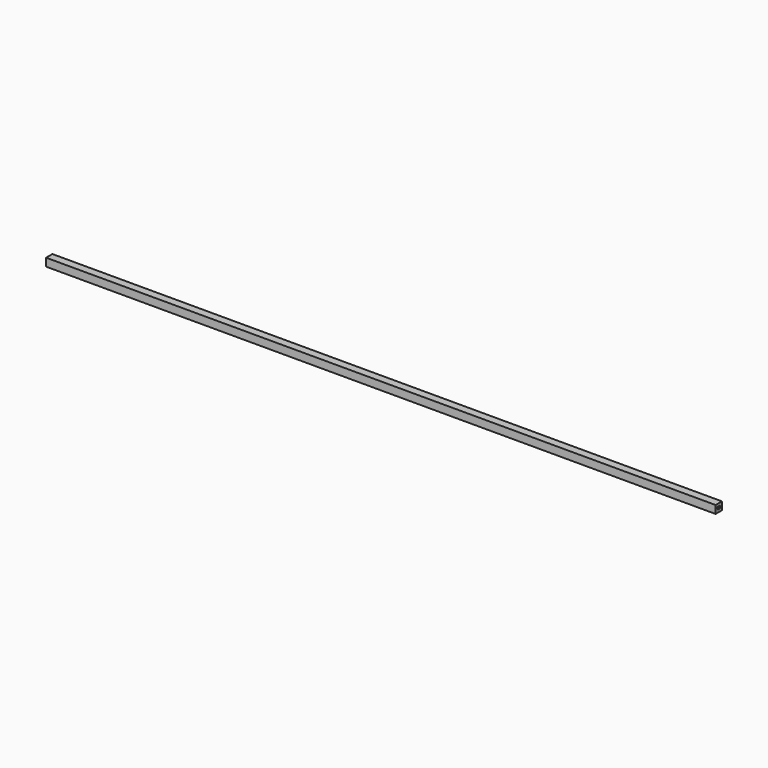
from build123d import *

# Parameters (mm, degrees)
F0_W     = 1270
F0_H     = 15
F1_DEPTH = 7.5
F2_W     = 5
F2_H     = 5
F3_DEPTH = 190.5
F4_DEPTH = 1270


with BuildPart() as f1:
    # F0 (on Front) → F1 (new body, symmetric)
    with BuildSketch(Plane.XZ):
        with Locations((-3.320781514, -27.9977901512)):
            Rectangle(F0_W, F0_H)
    extrude(amount=F1_DEPTH, both=True)

    # F2 (on face) → F3 (cut, symmetric)
    with BuildSketch(Plane.YZ.offset(631.679218486)):
        with Locations((0, -27.9977901512)):
            Rectangle(F2_W, F2_H)
    extrude(amount=F3_DEPTH, both=True, mode=Mode.SUBTRACT)

    # F4 (cut): a face of the model
    f4_faces = [f1.faces().sort_by_distance(p)[0] for p in [
        (441.179218486, 0, -27.9977901512),
    ]]
    extrude(f4_faces, amount=-F4_DEPTH, mode=Mode.SUBTRACT)


solid = f1.part
